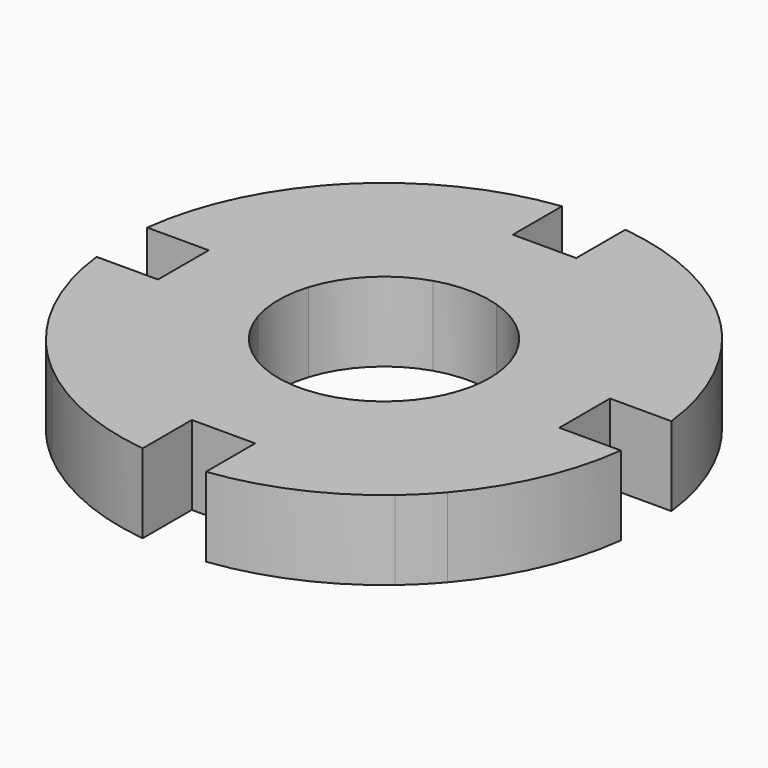
from build123d import *

# Parameters (mm, degrees)
F1_DEPTH = 7.5


with BuildPart() as f1:
    # F0 (on Top) → F1 (new body)
    with BuildSketch(Plane.XY):
        with BuildLine():
            ThreePointArc((3, 9.5393920142), (7.0710678119, 7.0710678119), (9.5393920142, 3))
            Line((9.5393920142, 3), (19, 3))
            Line((19, 3), (19, 16.2480768093))
            ThreePointArc((19, 16.2480768093), (17.6776695297, 17.6776695297), (16.2480768093, 19))
            Line((16.2480768093, 19), (3, 19))
            Line((3, 19), (3, 9.5393920142))
        make_face()
        with BuildLine():
            Line((3, 24.819347292), (3, 19))
            Line((3, 19), (16.2480768093, 19))
            ThreePointArc((16.2480768093, 19), (10.0542685433, 22.8891171534), (3, 24.819347292))
        make_face()
        with BuildLine():
            Line((-16.2480768093, 19), (-3, 19))
            Line((-3, 19), (-3, 24.819347292))
            ThreePointArc((-3, 24.819347292), (-10.0542685433, 22.8891171534), (-16.2480768093, 19))
        make_face()
        with BuildLine():
            ThreePointArc((-9.5393920142, 3), (-7.0710678119, 7.0710678119), (-3, 9.5393920142))
            Line((-3, 9.5393920142), (-3, 19))
            Line((-3, 19), (-16.2480768093, 19))
            ThreePointArc((-16.2480768093, 19), (-17.6776695297, 17.6776695297), (-19, 16.2480768093))
            Line((-19, 16.2480768093), (-19, 3))
            Line((-19, 3), (-9.5393920142, 3))
        make_face()
        with BuildLine():
            Line((-24.819347292, 3), (-19, 3))
            Line((-19, 3), (-19, 16.2480768093))
            ThreePointArc((-19, 16.2480768093), (-22.8891171534, 10.0542685433), (-24.819347292, 3))
        make_face()
        with BuildLine():
            ThreePointArc((-9.5393920142, -3), (-10, 0), (-9.5393920142, 3))
            Line((-9.5393920142, 3), (-19, 3))
            Line((-19, 3), (-19, -3))
            Line((-19, -3), (-9.5393920142, -3))
        make_face()
        with BuildLine():
            Line((-3, -19), (-3, -9.5393920142))
            ThreePointArc((-3, -9.5393920142), (-7.0710678119, -7.0710678119), (-9.5393920142, -3))
            Line((-9.5393920142, -3), (-19, -3))
            Line((-19, -3), (-19, -16.2480768093))
            ThreePointArc((-19, -16.2480768093), (-17.6776695297, -17.6776695297), (-16.2480768093, -19))
            Line((-16.2480768093, -19), (-3, -19))
        make_face()
        with BuildLine():
            Line((-19, -16.2480768093), (-19, -3))
            Line((-19, -3), (-24.819347292, -3))
            ThreePointArc((-24.819347292, -3), (-22.8891171534, -10.0542685433), (-19, -16.2480768093))
        make_face()
        with BuildLine():
            Line((-3, -24.819347292), (-3, -19))
            Line((-3, -19), (-16.2480768093, -19))
            ThreePointArc((-16.2480768093, -19), (-10.0542685433, -22.8891171534), (-3, -24.819347292))
        make_face()
        with BuildLine():
            Line((16.2480768093, -19), (3, -19))
            Line((3, -19), (3, -24.819347292))
            ThreePointArc((3, -24.819347292), (10.0542685433, -22.8891171534), (16.2480768093, -19))
        make_face()
        with BuildLine():
            Line((19, -3), (9.5393920142, -3))
            ThreePointArc((9.5393920142, -3), (7.0710678119, -7.0710678119), (3, -9.5393920142))
            Line((3, -9.5393920142), (3, -19))
            Line((3, -19), (16.2480768093, -19))
            ThreePointArc((16.2480768093, -19), (17.6776695297, -17.6776695297), (19, -16.2480768093))
            Line((19, -16.2480768093), (19, -3))
        make_face()
        with BuildLine():
            Line((24.819347292, -3), (19, -3))
            Line((19, -3), (19, -16.2480768093))
            ThreePointArc((19, -16.2480768093), (22.8891171534, -10.0542685433), (24.819347292, -3))
        make_face()
        with BuildLine():
            Line((19, 16.2480768093), (19, 3))
            Line((19, 3), (24.819347292, 3))
            ThreePointArc((24.819347292, 3), (22.8891171534, 10.0542685433), (19, 16.2480768093))
        make_face()
        with BuildLine():
            ThreePointArc((9.5393920142, 3), (9.8841772582, 1.5175769928), (10, 0))
            ThreePointArc((10, 0), (9.8841772582, -1.5175769928), (9.5393920142, -3))
            Line((9.5393920142, -3), (19, -3))
            Line((19, -3), (19, 3))
            Line((19, 3), (9.5393920142, 3))
        make_face()
        with BuildLine():
            Line((3, -19), (3, -9.5393920142))
            ThreePointArc((3, -9.5393920142), (0, -10), (-3, -9.5393920142))
            Line((-3, -9.5393920142), (-3, -19))
            Line((-3, -19), (3, -19))
        make_face()
        with BuildLine():
            ThreePointArc((-3, 9.5393920142), (0, 10), (3, 9.5393920142))
            Line((3, 9.5393920142), (3, 19))
            Line((3, 19), (-3, 19))
            Line((-3, 19), (-3, 9.5393920142))
        make_face()
    extrude(amount=F1_DEPTH)


solid = f1.part
